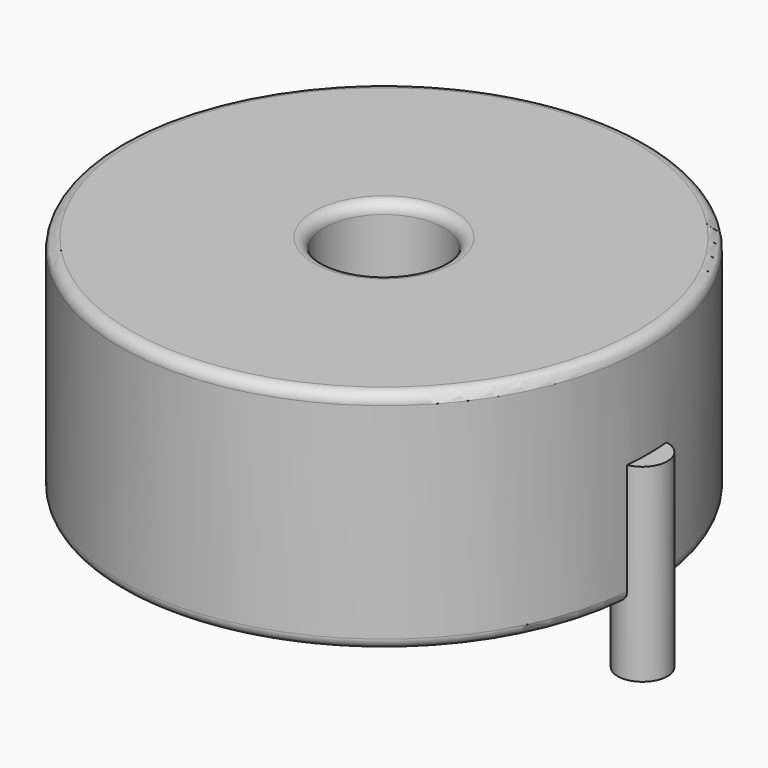
from build123d import *

# Parameters (mm, degrees)
SKETCH001_R       = 1.15
PAD001_DEPTH      = 5.25
PAD001_DEPTH_BACK = 3.5
SKETCH_R          = 12.2
SKETCH_R_2        = 2.75
PAD_DEPTH         = 10.5
FILLET_R          = 0.5


with BuildPart() as pad001:
    # Sketch001 → Pad001 (new body, two sides)
    with BuildSketch(Plane.XY.offset(0.5)) as pad001_sk:
        Circle(SKETCH001_R)
        with Locations((23.9, 0)):
            Circle(SKETCH001_R)
    extrude(amount=PAD001_DEPTH)
    extrude(pad001_sk.sketch, amount=-PAD001_DEPTH_BACK)


with BuildPart() as obj1:
    # Sketch → Pad (new body)
    with BuildSketch(Plane.XY.offset(0.1)):
        with Locations((11.95, 0)):
            Circle(SKETCH_R)
        with Locations((11.95, 0)):
            Circle(SKETCH_R_2, mode=Mode.SUBTRACT)
    extrude(amount=PAD_DEPTH)

    # Fillet
    fillet_edges = [obj1.edges().sort_by_distance(p)[0] for p in [
        (9.2, 0, 10.6),
        (-0.25, 0, 10.6),
        (-0.25, 0, 0.1),
    ]]
    fillet(fillet_edges, radius=FILLET_R)

    # obj1: union Pad001
    add(pad001.part)


solid = obj1.part
